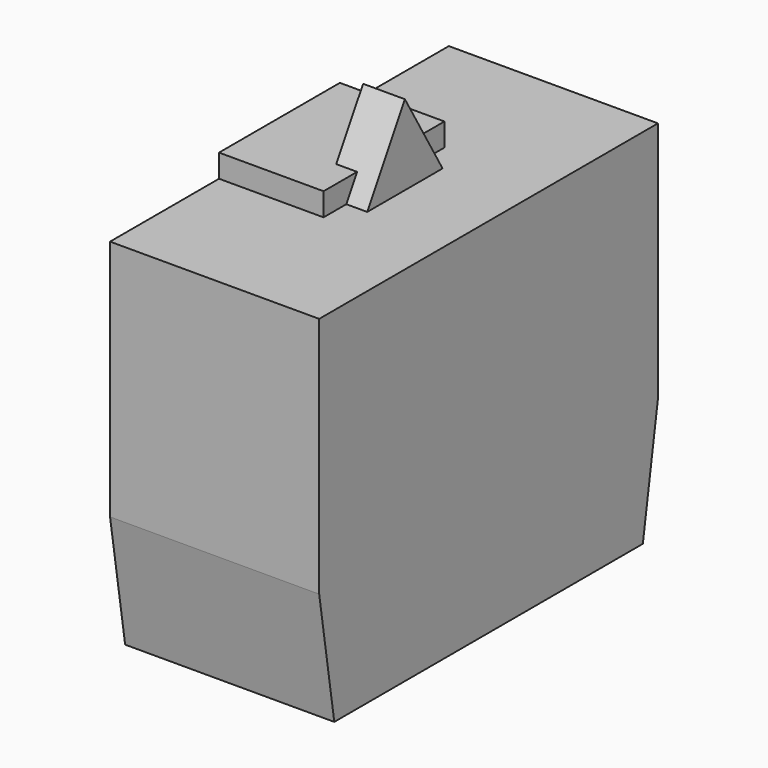
from build123d import *

# Parameters (mm, degrees)
PAD007_DEPTH = 7.5
SKETCH022_W  = 5.417957
SKETCH022_H  = 1.6504247125
PAD008_DEPTH = 7.5
PAD009_DEPTH = 1.5


with BuildPart() as part:
    # Sketch021 → Pad007 (new body, symmetric)
    with BuildSketch(Plane.YZ):
        Polygon((0, -11.6652847125), (-13.832417, -11.6652847125), (-15.186558, -3.04616), (-15.186558, 14.3347152875), (0, 14.3347152875), align=None)
    pad007 = extrude(amount=PAD007_DEPTH, both=True)

    # Sketch022 → Pad008 (join)
    with BuildSketch(Plane.YZ):
        with Locations((-2.7089785, 15.1599276438)):
            Rectangle(SKETCH022_W, SKETCH022_H)
    pad008 = extrude(amount=-PAD008_DEPTH)

    # Sketch023 → Pad009 (join, symmetric)
    with BuildSketch(Plane.YZ):
        Polygon((0, 20.079264), (-3.377041, 14.3347152875), (0, 14.3347152875), align=None)
    pad009 = extrude(amount=PAD009_DEPTH, both=True)

    # Mirrored006: Pad007, Pad008, Pad009 across Sketch021 V_Axis
    add(pad007.mirror(Plane(origin=(0, 0, 0), x_dir=(1, 0, 0), z_dir=(0, 1, 0))))
    add(pad008.mirror(Plane(origin=(0, 0, 0), x_dir=(1, 0, 0), z_dir=(0, 1, 0))))
    add(pad009.mirror(Plane(origin=(0, 0, 0), x_dir=(1, 0, 0), z_dir=(0, 1, 0))))


with BuildPart() as part_1:
    # Body003 placement: moved
    add(part.part.moved(Location((-7, 0, -4))))


solid = part_1.part
